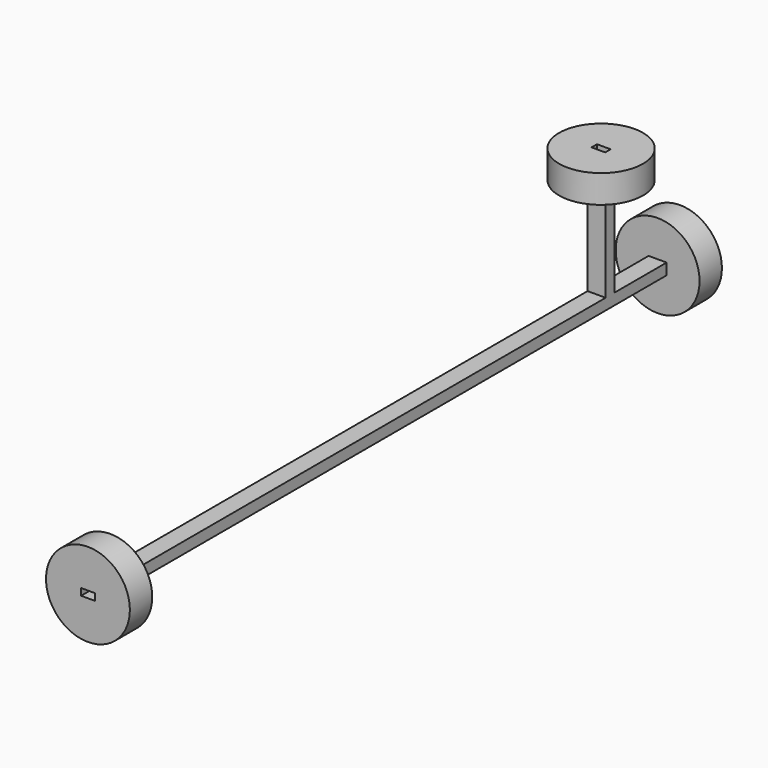
from build123d import *

# Parameters (mm, degrees)
F0_W      = 4.1
F0_H      = 2.55
F0_W_2    = 3.1
F0_H_2    = 1.55
F2_DEPTH  = 168.1
F0_R      = 9.525
F3_DEPTH  = 6.35
F6_W      = 4.1
F6_H      = 2.55
F6_W_2    = 3.1
F6_H_2    = 1.55
F7_DEPTH  = 28.7
F8_R      = 9.525
F8_W      = 4.1
F8_H      = 2.55
F9_DEPTH  = 6.35
F4_R      = 9.525
F4_W      = 4.1
F4_H      = 2.55
F10_DEPTH = 6.35


with BuildPart() as f2:
    # F0 (on Front) → F2 (new body)
    with BuildSketch(Plane.XZ):
        Rectangle(F0_W, F0_H)
        Rectangle(F0_W_2, F0_H_2, mode=Mode.SUBTRACT)
    extrude(amount=F2_DEPTH)

    # F0 (on Front) → F3 (join)
    with BuildSketch(Plane.XZ):
        Circle(F0_R)
        Rectangle(F0_W, F0_H, mode=Mode.SUBTRACT)
    extrude(amount=F3_DEPTH)

    # F6 (on offset) → F7 (join)
    with BuildSketch(Plane.XY.offset(1.275)):
        with Locations((0, -22.4)):
            Rectangle(F6_W, F6_H)
        with Locations((0, -22.4)):
            Rectangle(F6_W_2, F6_H_2, mode=Mode.SUBTRACT)
    extrude(amount=F7_DEPTH)

    # F8 (on face) → F9 (join)
    with BuildSketch(Plane.XY.offset(29.975)):
        with Locations((0, -22.4)):
            Circle(F8_R)
        with Locations((0, -22.4)):
            Rectangle(F8_W, F8_H, mode=Mode.SUBTRACT)
    extrude(amount=-F9_DEPTH)

    # F4 (on face) → F10 (join)
    with BuildSketch(Plane.XZ.offset(168.1)):
        Circle(F4_R)
        Rectangle(F4_W, F4_H, mode=Mode.SUBTRACT)
    extrude(amount=-F10_DEPTH)


solid = f2.part
